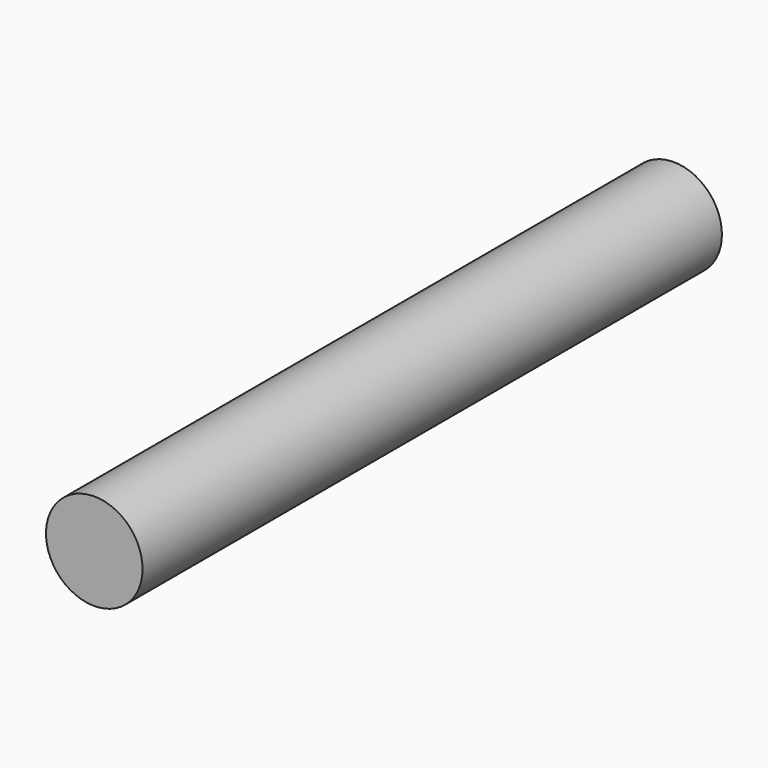
from build123d import *

# Parameters (mm, degrees)
F0_R = 3


with BuildPart() as f2:
    # F2: sweep along a path in F1
    with BuildLine(Plane.YZ) as f2_path:
        Line((0, 0), (-45, 0))
    # F0 (on Front) → F2 (sweep)
    with BuildSketch(Plane.XZ):
        Circle(F0_R)
    sweep(path=f2_path.line)


solid = f2.part
